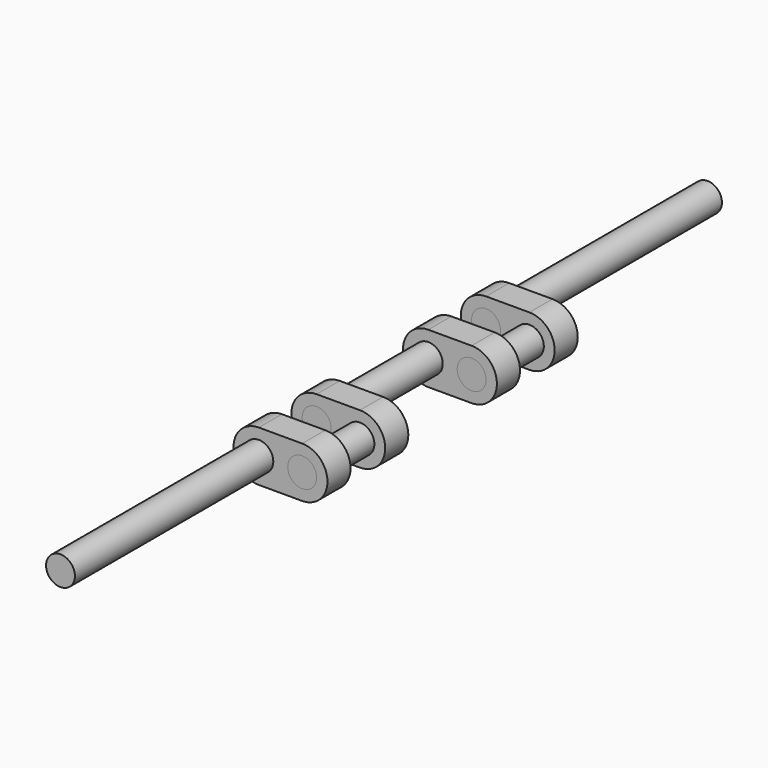
from build123d import *

# Parameters (mm, degrees)
F0_R      = 6
F1_DEPTH  = 103
F2_R      = 6
F3_DEPTH  = 12
F4_R      = 6
F5_DEPTH  = 18
F6_R      = 6
F7_DEPTH  = 12
F8_R      = 6
F9_DEPTH  = 46
F10_R     = 6
F11_DEPTH = 12
F12_R     = 6
F13_DEPTH = 18
F14_R     = 6
F15_DEPTH = 12
F16_R     = 6
F17_DEPTH = 103
F18_DEPTH = 12
F19_DEPTH = 12
F20_DEPTH = 12
F21_DEPTH = 12
F22_DEPTH = 12
F23_DEPTH = 12
F24_DEPTH = 12
F25_DEPTH = 12
F26_ANGLE = -90


with BuildPart() as f1:
    # F0 (on Front) → F1 (new body)
    with BuildSketch(Plane.XZ):
        Circle(F0_R)
    extrude(amount=-F1_DEPTH)


with BuildPart() as f3:
    # F2 (on face) → F3 (new body)
    with BuildSketch(Plane(origin=(0, 103, 0), x_dir=(-1, 0, 0), z_dir=(0, 1, 0))):
        with BuildLine():
            Line((-10.5, 18), (-10.5, 0))
            ThreePointArc((-10.5, 0), (0, -10.5), (10.5, 0))
            Line((10.5, 0), (10.5, 18))
            ThreePointArc((10.5, 18), (0, 28.5), (-10.5, 18))
        make_face()
        Circle(F2_R, mode=Mode.SUBTRACT)
        with Locations((0, 18)):
            Circle(F2_R, mode=Mode.SUBTRACT)
    extrude(amount=F3_DEPTH)


with BuildPart() as f5:
    # F4 (on face) → F5 (new body)
    with BuildSketch(Plane(origin=(0, 115, 0), x_dir=(-1, 0, 0), z_dir=(0, 1, 0))):
        with Locations((0, 18)):
            Circle(F4_R)
    extrude(amount=F5_DEPTH)


with BuildPart() as f7:
    # F6 (on face) → F7 (new body)
    with BuildSketch(Plane(origin=(0, 133, 0), x_dir=(-1, 0, 0), z_dir=(0, 1, 0))):
        with BuildLine():
            Line((10.5, 0), (10.5, 18))
            ThreePointArc((10.5, 18), (0, 28.5), (-10.5, 18))
            Line((-10.5, 18), (-10.5, 0))
            ThreePointArc((-10.5, 0), (0, -10.5), (10.5, 0))
        make_face()
        Circle(F6_R, mode=Mode.SUBTRACT)
        with Locations((0, 18)):
            Circle(F6_R, mode=Mode.SUBTRACT)
    extrude(amount=F7_DEPTH)


with BuildPart() as f9:
    # F8 (on face) → F9 (new body)
    with BuildSketch(Plane(origin=(0, 145, 0), x_dir=(-1, 0, 0), z_dir=(0, 1, 0))):
        Circle(F8_R)
    extrude(amount=F9_DEPTH)


with BuildPart() as f11:
    # F10 (on face) → F11 (new body)
    with BuildSketch(Plane(origin=(0, 191, 0), x_dir=(-1, 0, 0), z_dir=(0, 1, 0))):
        with BuildLine():
            Line((-9, -10.5), (0, -10.5))
            ThreePointArc((0, -10.5), (10.5, 0), (0, 10.5))
            Line((0, 10.5), (-9, 10.5))
            Line((-9, 10.5), (-9, -10.5))
        make_face()
        Circle(F10_R, mode=Mode.SUBTRACT)
        with BuildLine():
            Line((-18, -10.5), (-9, -10.5))
            Line((-9, -10.5), (-9, 10.5))
            Line((-9, 10.5), (-18, 10.5))
            ThreePointArc((-18, 10.5), (-28.5, 0), (-18, -10.5))
        make_face()
        with Locations((-18, 0)):
            Circle(F10_R, mode=Mode.SUBTRACT)
    extrude(amount=F11_DEPTH)


with BuildPart() as f13:
    # F12 (on face) → F13 (new body)
    with BuildSketch(Plane(origin=(0, 203, 0), x_dir=(-1, 0, 0), z_dir=(0, 1, 0))):
        with Locations((-18, 0)):
            Circle(F12_R)
    extrude(amount=F13_DEPTH)


with BuildPart() as f15:
    # F14 (on face) → F15 (new body)
    with BuildSketch(Plane(origin=(0, 221, 0), x_dir=(-1, 0, 0), z_dir=(0, 1, 0))):
        with BuildLine():
            Line((0, 10.5), (-18, 10.5))
            ThreePointArc((-18, 10.5), (-28.5, 0), (-18, -10.5))
            Line((-18, -10.5), (0, -10.5))
            ThreePointArc((0, -10.5), (10.5, 0), (0, 10.5))
        make_face()
        with Locations((-18, 0)):
            Circle(F14_R, mode=Mode.SUBTRACT)
        Circle(F14_R, mode=Mode.SUBTRACT)
    extrude(amount=F15_DEPTH)


with BuildPart() as f17:
    # F16 (on face) → F17 (new body)
    with BuildSketch(Plane(origin=(0, 233, 0), x_dir=(-1, 0, 0), z_dir=(0, 1, 0))):
        Circle(F16_R)
    extrude(amount=F17_DEPTH)


with BuildPart() as f18:
    # F18 (new): a face of the model
    f18_faces = [f1.part.faces().sort_by_distance(p)[0] for p in [
        (0, 103, 0),
    ]]
    extrude(f18_faces, amount=F18_DEPTH)


with BuildPart() as f19:
    # F19 (new): a face of the model
    f19_faces = [f5.part.faces().sort_by_distance(p)[0] for p in [
        (0, 115, 18),
    ]]
    extrude(f19_faces, amount=F19_DEPTH)


with BuildPart() as f20:
    # F20 (new): a face of the model
    f20_faces = [f9.part.faces().sort_by_distance(p)[0] for p in [
        (0, 145, 0),
    ]]
    extrude(f20_faces, amount=F20_DEPTH)


with BuildPart() as f21:
    # F21 (new): a face of the model
    f21_faces = [f5.part.faces().sort_by_distance(p)[0] for p in [
        (0, 133, 18),
    ]]
    extrude(f21_faces, amount=F21_DEPTH)


with BuildPart() as f22:
    # F22 (new): a face of the model
    f22_faces = [f9.part.faces().sort_by_distance(p)[0] for p in [
        (0, 191, 0),
    ]]
    extrude(f22_faces, amount=F22_DEPTH)


with BuildPart() as f23:
    # F23 (new): a face of the model
    f23_faces = [f13.part.faces().sort_by_distance(p)[0] for p in [
        (18, 221, 0),
    ]]
    extrude(f23_faces, amount=F23_DEPTH)


with BuildPart() as f24:
    # F24 (new): a face of the model
    f24_faces = [f13.part.faces().sort_by_distance(p)[0] for p in [
        (18, 203, 0),
    ]]
    extrude(f24_faces, amount=F24_DEPTH)


with BuildPart() as f25:
    # F25 (new): a face of the model
    f25_faces = [f17.part.faces().sort_by_distance(p)[0] for p in [
        (0, 233, 0),
    ]]
    extrude(f25_faces, amount=F25_DEPTH)


with BuildPart() as f7_1:
    # F26: moved
    add(f7.part.rotate(Axis((0, 0, 0), (0, -1, 0)), F26_ANGLE))


with BuildPart() as f5_1:
    # F26: moved
    add(f5.part.rotate(Axis((0, 0, 0), (0, -1, 0)), F26_ANGLE))


with BuildPart() as f3_1:
    # F26: moved
    add(f3.part.rotate(Axis((0, 0, 0), (0, -1, 0)), F26_ANGLE))


with BuildPart() as f19_1:
    # F26: moved
    add(f19.part.rotate(Axis((0, 0, 0), (0, -1, 0)), F26_ANGLE))


with BuildPart() as f21_1:
    # F26: moved
    add(f21.part.rotate(Axis((0, 0, 0), (0, -1, 0)), F26_ANGLE))


solid = Compound([f1.part, f9.part, f11.part, f13.part, f15.part, f17.part, f18.part, f20.part, f22.part, f23.part, f24.part, f25.part, f7_1.part, f5_1.part, f3_1.part, f19_1.part, f21_1.part])
